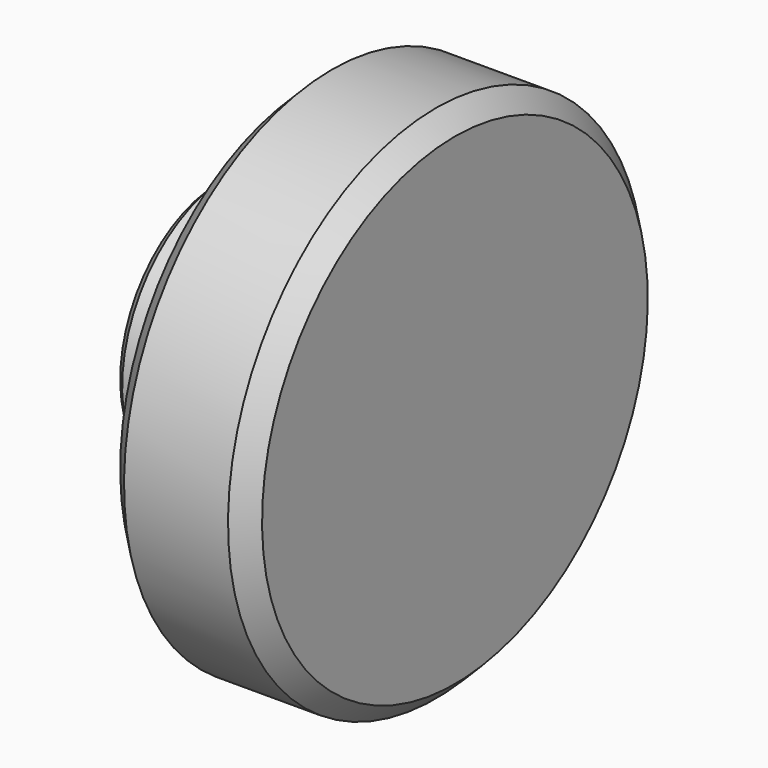
from build123d import *

# Parameters (mm, degrees)
F3_D     = 16
F3_DEPTH = 15
F3_TIP   = 4.8068849522
F4_SIZE  = 2
F5_SIZE  = 1


with BuildPart() as f1:
    # F0 (on Front) → F1 (revolve)
    with BuildSketch(Plane.XZ):
        Polygon((0, 14), (0, 0), (25, 0), (25, 27.5), (10, 27.5), (10, 14), align=None)
    revolve(axis=Axis((12.5, 0, 0), (-1, 0, 0)))

    # F3
    with Locations(Plane(origin=(0, 0, 0), x_dir=(0, -1, 0), z_dir=(-1, 0, 0))):
        with Locations((0, 0)):
            Hole(F3_D / 2, depth=F3_DEPTH)
            with Locations((0, 0, -(F3_DEPTH + F3_TIP / 2))):  # 118° drill point
                Cone(0, F3_D / 2, F3_TIP, mode=Mode.SUBTRACT)

    # F4
    f4_edges = [f1.edges().sort_by_distance(p)[0] for p in [
        (25, 0, -27.5),
        (10, 0, -27.5),
        (17.5, 0, 27.5),
    ]]
    chamfer(f4_edges, length=F4_SIZE)

    # F5
    f5_edges = [f1.edges().sort_by_distance(p)[0] for p in [
        (0, 0, -14),
    ]]
    chamfer(f5_edges, length=F5_SIZE)


solid = f1.part
